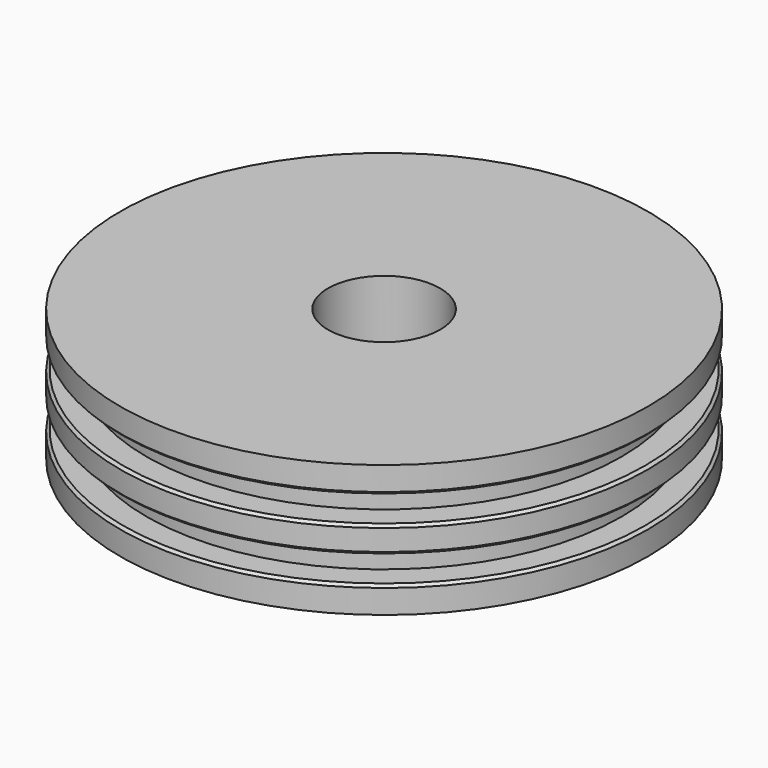
from build123d import *

# Parameters (mm, degrees)
F2_SIZE2 = 0.2
F2_SIZE  = 0.2


with BuildPart() as f1:
    # F0 (on Front) → F1 (revolve)
    with BuildSketch(Plane.XZ):
        Polygon((20, -2), (20, 0), (4.25, 0), (4.25, -10), (20, -10), (20, -8), (18, -8), (18, -6), (20, -6), (20, -4), (18, -4), (18, -2), align=None)
    revolve(axis=Axis((0, 0, -5), (0, 0, -1)))

    # F2
    f2_edges = [f1.edges().sort_by_distance(p)[0] for p in [
        (-20, 0, -2),
        (-20, 0, -4),
        (-20, 0, -8),
        (-20, 0, -6),
    ]]
    chamfer(f2_edges, length=F2_SIZE, length2=F2_SIZE2)


solid = f1.part
